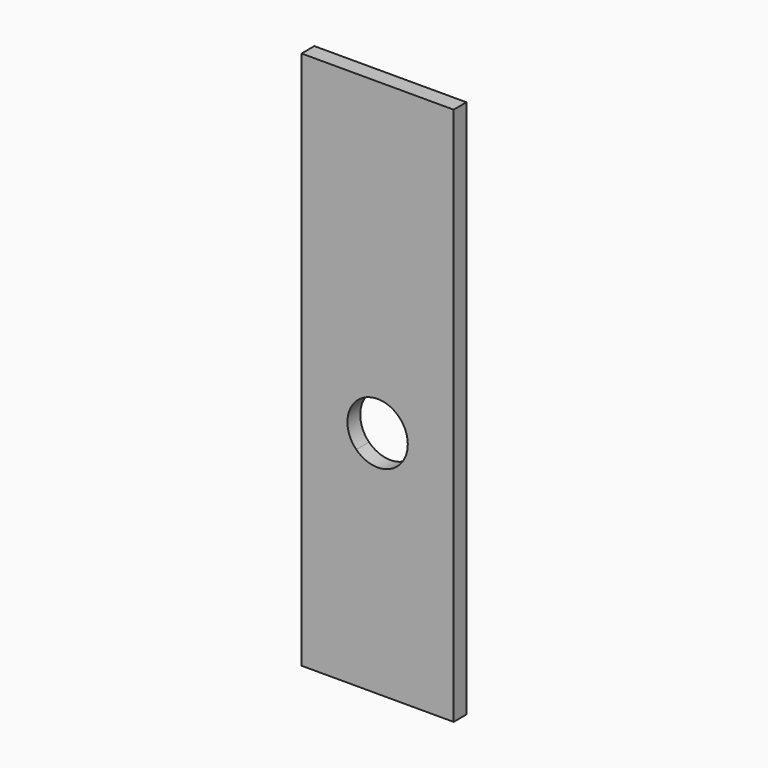
from build123d import *

# Parameters (mm, degrees)
F0_W     = 57
F0_H     = 202
F1_DEPTH = 6


with BuildPart() as f1:
    # F0 (on Front) → F1 (new body)
    with BuildSketch(Plane.XZ):
        Rectangle(F0_W, F0_H)
        with BuildLine():
            ThreePointArc((-8, -23), (-11.313708, -15), (-8, -7))
            ThreePointArc((-8, -7), (0, -3.686292), (8, -7))
            ThreePointArc((8, -7), (10.452504, -10.670431), (11.313708, -15))
            ThreePointArc((11.313708, -15), (10.452504, -19.329569), (8, -23))
            ThreePointArc((8, -23), (0, -26.313708), (-8, -23))
        make_face(mode=Mode.SUBTRACT)
    extrude(amount=F1_DEPTH)


solid = f1.part
